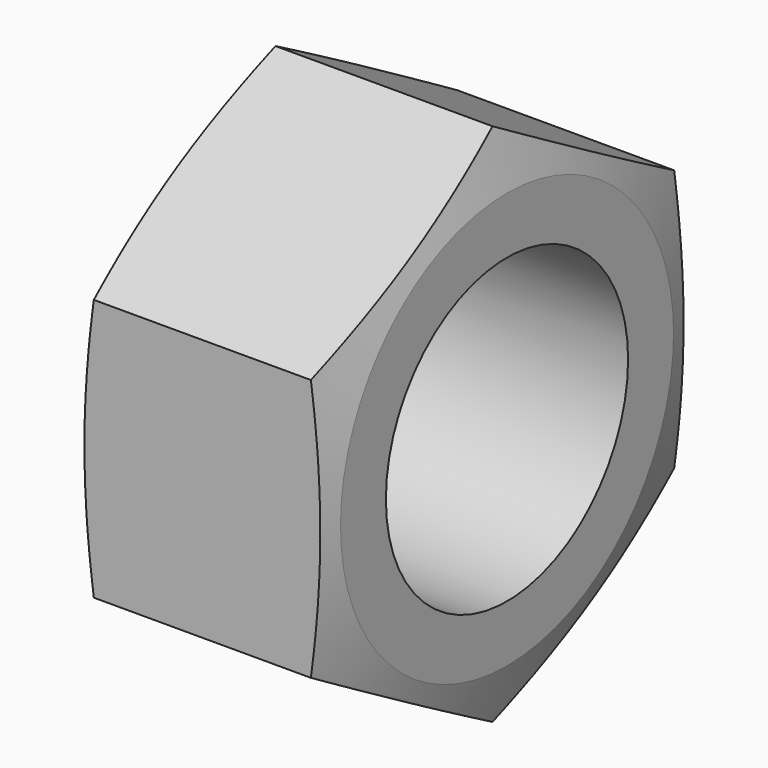
from build123d import *

# Parameters (mm, degrees)
F0_R     = 8
F1_DEPTH = 13


with BuildPart() as f1:
    # F0 (on Right) → F1 (new body)
    with BuildSketch(Plane.YZ):
        Polygon((12, 6.928203), (0, 13.856406), (-12, 6.928203), (-12, -6.928203), (0, -13.856406), (12, -6.928203), align=None)
        Circle(F0_R, mode=Mode.SUBTRACT)
    extrude(amount=F1_DEPTH)

    # F2 (on Front) → F3 (revolve, cut)
    with BuildSketch(Plane.XZ):
        Polygon((0, 24.532327), (0, 11), (3.625976, 24.532327), align=None)
        Polygon((9.374024, 24.532327), (13, 11), (13, 24.532327), align=None)
    revolve(axis=Axis((40.371262, 0, 0), (1, 0, 0)), mode=Mode.SUBTRACT)


solid = f1.part
